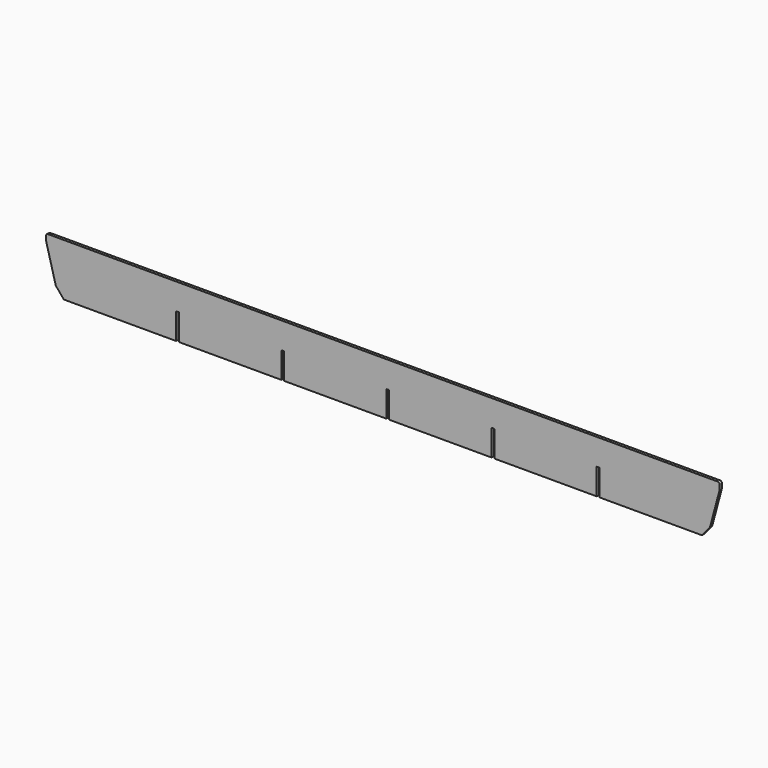
from build123d import *

# Parameters (mm, degrees)
F1_DEPTH = 1.5


with BuildPart() as f1:
    # F0 (on Front) → F1 (new body, symmetric)
    with BuildSketch(Plane.XZ):
        with BuildLine():
            Line((-105.6, 0), (0, 0))
            Line((0, 0), (3.8, 0))
            Line((3.8, 0), (3.8, 28))
            Line((3.8, 28), (6.8, 28))
            Line((6.8, 28), (6.8, 0))
            Line((6.8, 0), (116.2, 0))
            Line((116.2, 0), (116.2, 28))
            Line((116.2, 28), (119.2, 28))
            Line((119.2, 28), (119.2, 0))
            Line((119.2, 0), (228.6, 0))
            Line((228.6, 0), (228.6, 28))
            Line((228.6, 28), (231.6, 28))
            Line((231.6, 28), (231.6, 0))
            Line((231.6, 0), (341, 0))
            Line((341, 0), (349.19706, 9.768876))
            ThreePointArc((349.19706, 9.768876), (349.559959, 10.311993), (349.796704, 10.920781))
            Line((349.796704, 10.920781), (360, 49))
            Line((360, 49), (360, 54))
            ThreePointArc((360, 54), (359.414214, 55.414214), (358, 56))
            Line((358, 56), (0, 56))
            Line((0, 56), (-358, 56))
            ThreePointArc((-358, 56), (-359.414214, 55.414214), (-360, 54))
            Line((-360, 54), (-360, 49))
            Line((-360, 49), (-349.796704, 10.920781))
            ThreePointArc((-349.796704, 10.920781), (-349.559959, 10.311993), (-349.19706, 9.768876))
            Line((-349.19706, 9.768876), (-341, 0))
            Line((-341, 0), (-221, 0))
            Line((-221, 0), (-221, 28))
            Line((-221, 28), (-218, 28))
            Line((-218, 28), (-218, 0))
            Line((-218, 0), (-108.6, 0))
            Line((-108.6, 0), (-108.6, 28))
            Line((-108.6, 28), (-105.6, 28))
            Line((-105.6, 28), (-105.6, 0))
        make_face()
    extrude(amount=F1_DEPTH, both=True)


solid = f1.part
